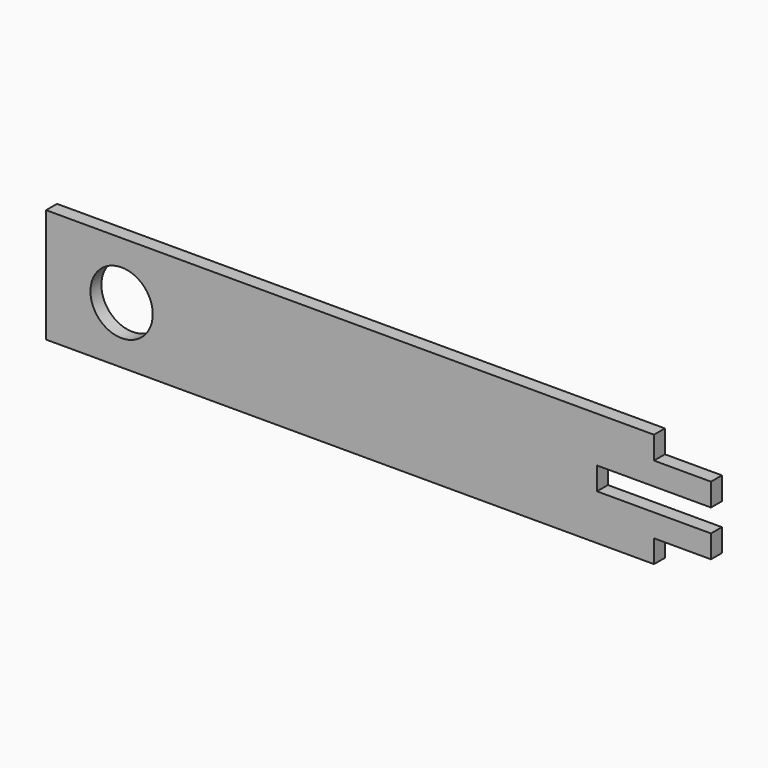
from build123d import *

# Parameters (mm, degrees)
F0_R     = 10.414
F0_W     = 19.05
F0_H     = 7.62
F1_DEPTH = 4.572


with BuildPart() as f1:
    # F0 (on Front) → F1 (new body)
    with BuildSketch(Plane.XZ):
        Polygon((-101.6, -19.05), (101.6, -19.05), (101.6, -11.43), (101.6, -3.81), (82.548013, -3.81), (82.548013, 3.81), (101.6, 3.81), (101.6, 11.43), (101.6, 19.05), (-101.6, 19.05), align=None)
        with Locations((-76.357752, 0)):
            Circle(F0_R, mode=Mode.SUBTRACT)
        with Locations((111.125, 7.62)):
            Rectangle(F0_W, F0_H)
        with Locations((111.125, -7.62)):
            Rectangle(F0_W, F0_H)
    extrude(amount=F1_DEPTH)


solid = f1.part
